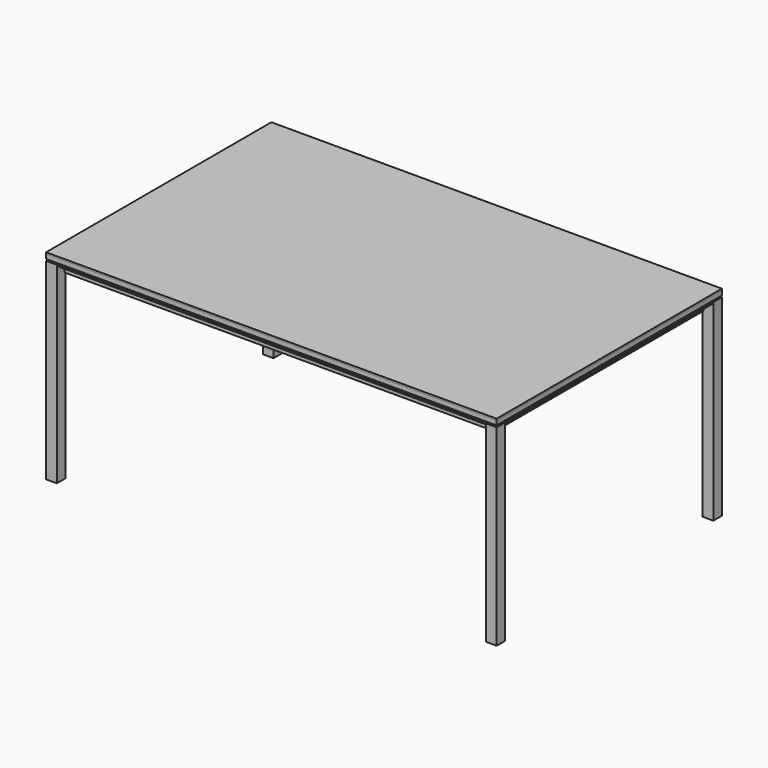
from build123d import *

# Parameters (mm, degrees)
F0_W      = 1600
F0_H      = 1000
F1_DEPTH  = 15
F3_W      = 38.1
F3_H      = 38.1
F3_W_2    = 34.1
F3_H_2    = 34.1
F4_DEPTH  = 683
F6_DEPTH  = 1523.8
F9_DEPTH  = 923.8
F1_FACE_W = 1600
F1_FACE_H = 1000
F11_DEPTH = 6


with BuildPart() as f1:
    # F0 (on Top) → F1 (new body)
    with BuildSketch(Plane.XY):
        Rectangle(F0_W, F0_H)
    extrude(amount=F1_DEPTH)


with BuildPart() as f4:
    # F3 (on offset) → F4 (new body)
    with BuildSketch(Plane(origin=(0, 0, -6), x_dir=(1, 0, 0), z_dir=(0, 0, -1))):
        with Locations((-780.95, 480.95)):
            Rectangle(F3_W, F3_H)
        with Locations((-780.95, 480.95)):
            Rectangle(F3_W_2, F3_H_2, mode=Mode.SUBTRACT)
        with Locations((780.95, 480.95)):
            Rectangle(F3_W, F3_H)
        with Locations((780.95, 480.95)):
            Rectangle(F3_W_2, F3_H_2, mode=Mode.SUBTRACT)
        with Locations((-780.95, -480.95)):
            Rectangle(F3_W, F3_H)
        with Locations((-780.95, -480.95)):
            Rectangle(F3_W_2, F3_H_2, mode=Mode.SUBTRACT)
        with Locations((780.95, -480.95)):
            Rectangle(F3_W, F3_H)
        with Locations((780.95, -480.95)):
            Rectangle(F3_W_2, F3_H_2, mode=Mode.SUBTRACT)
    extrude(amount=F4_DEPTH)


with BuildPart() as f6:
    # F5 (on face) → F6 (new body, through all)
    with BuildSketch(Plane.YZ.offset(-761.9)):
        Polygon((-461.9, -6), (-500, -6), (-500, -9.5), (-465.4, -9.5), (-465.4, -44.1), (-461.9, -44.1), align=None)
    extrude(amount=F6_DEPTH)


with BuildPart() as f7_1:
    # F7: instance of F6
    add(f6.part.mirror(Plane.XZ))


with BuildPart() as f9:
    # F8 (on face) → F9 (new body, through all)
    with BuildSketch(Plane(origin=(0, -461.9, 0), x_dir=(-1, 0, 0), z_dir=(0, 1, 0))):
        Polygon((800, -9.5), (800, -6), (761.9, -6), (761.9, -44.1), (765.4, -44.1), (765.4, -9.5), align=None)
    extrude(amount=F9_DEPTH)


with BuildPart() as f10_1:
    # F10: instance of F9
    add(f9.part.mirror(Plane.YZ))


with BuildPart() as f11:
    # F1_face (on face) → F11 (new body)
    with BuildSketch(Plane.XY.offset(15)):
        Rectangle(F1_FACE_W, F1_FACE_H)
    extrude(amount=F11_DEPTH)


solid = Compound([f1.part, f4.part, f6.part, f7_1.part, f9.part, f10_1.part, f11.part])
